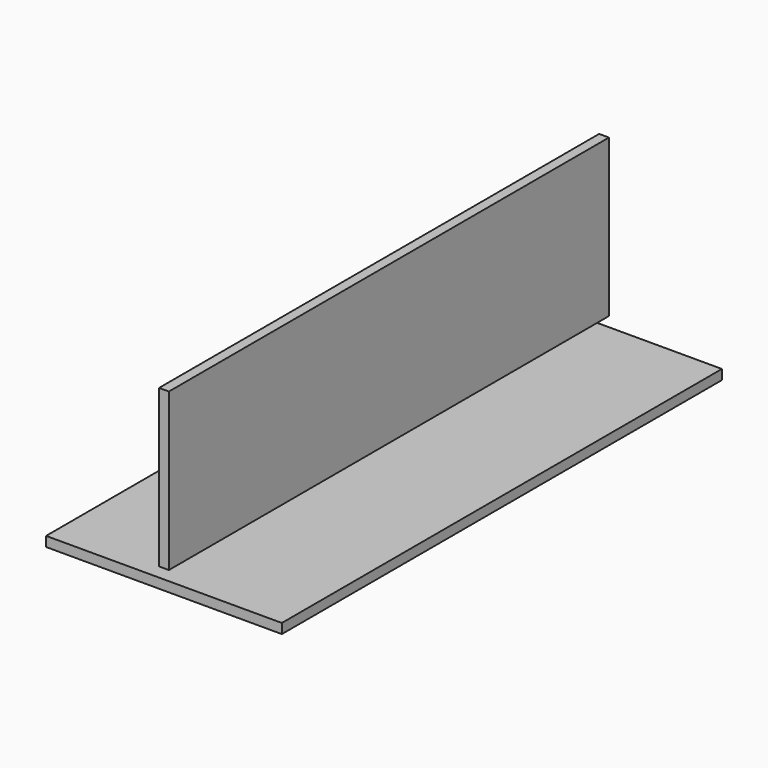
from build123d import *

# Parameters (mm, degrees)
F0_W     = 152.4
F0_H     = 6.35
F1_DEPTH = 355.6
F2_W     = 6.35
F2_H     = 101.6
F3_DEPTH = 355.6


with BuildPart() as f1:
    # F0 (on Front) → F1 (new body)
    with BuildSketch(Plane.XZ):
        Rectangle(F0_W, F0_H)
    extrude(amount=F1_DEPTH)


with BuildPart() as f3:
    # F2 (on Front) → F3 (new body)
    with BuildSketch(Plane.XZ):
        with Locations((0, 60.325)):
            Rectangle(F2_W, F2_H)
    extrude(amount=F3_DEPTH)


solid = Compound([f1.part, f3.part])
